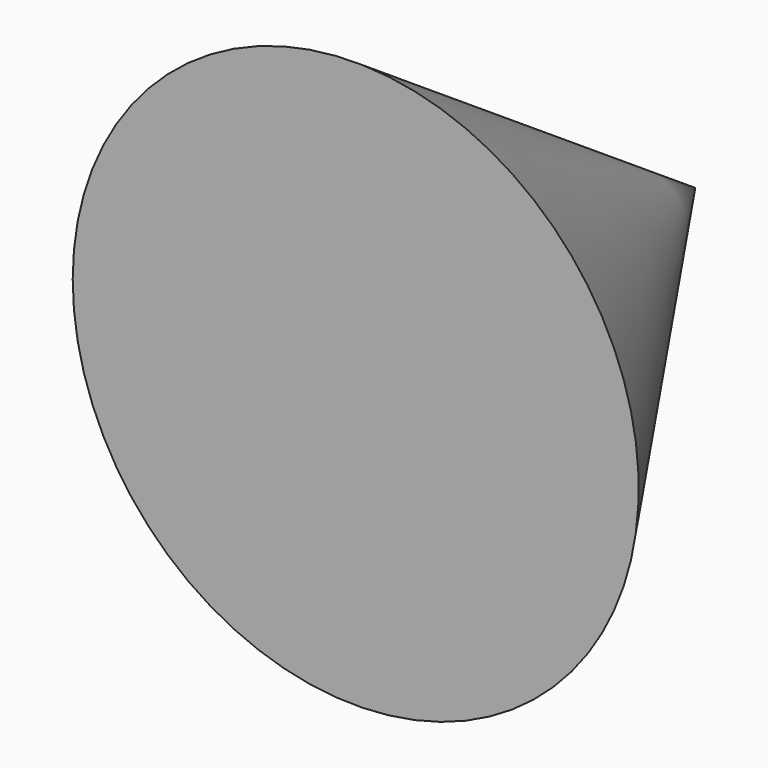
from build123d import *


with BuildPart() as f1:
    # F0 (on Top) → F1 (revolve)
    with BuildSketch(Plane.XY):
        Polygon((0, 0), (0, 3000), (-2000, 0), align=None)
    revolve(axis=Axis((0, 1500, 0), (0, 1, 0)))


solid = f1.part
